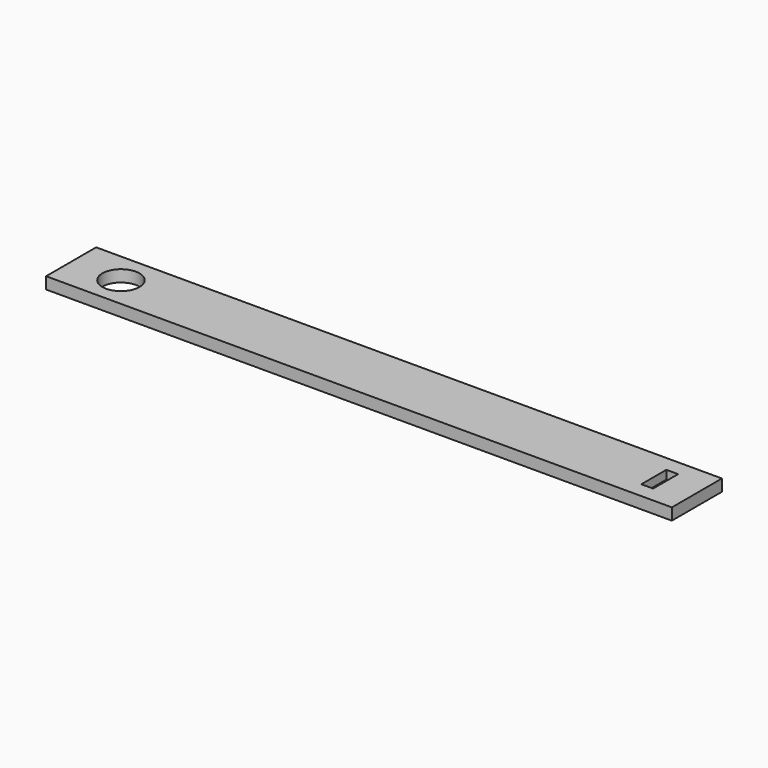
from build123d import *

# Parameters (mm, degrees)
F0_W     = 1016
F0_H     = 101.6
F0_R     = 30.1244
F1_DEPTH = 19.05
F2_W     = 19.05
F2_H     = 50.8
F3_DEPTH = 13.97


with BuildPart() as f1:
    # F0 (on Top) → F1 (new body)
    with BuildSketch(Plane.XY):
        with Locations((-508, -50.8)):
            Rectangle(F0_W, F0_H)
        with Locations((-935.0756, -50.8)):
            Circle(F0_R, mode=Mode.SUBTRACT)
    extrude(amount=F1_DEPTH)

    # F2 (on face) → F3 (cut)
    with BuildSketch(Plane.XY.offset(19.05)):
        with Locations((-60.325, -50.8)):
            Rectangle(F2_W, F2_H)
    extrude(amount=-F3_DEPTH, mode=Mode.SUBTRACT)


solid = f1.part
